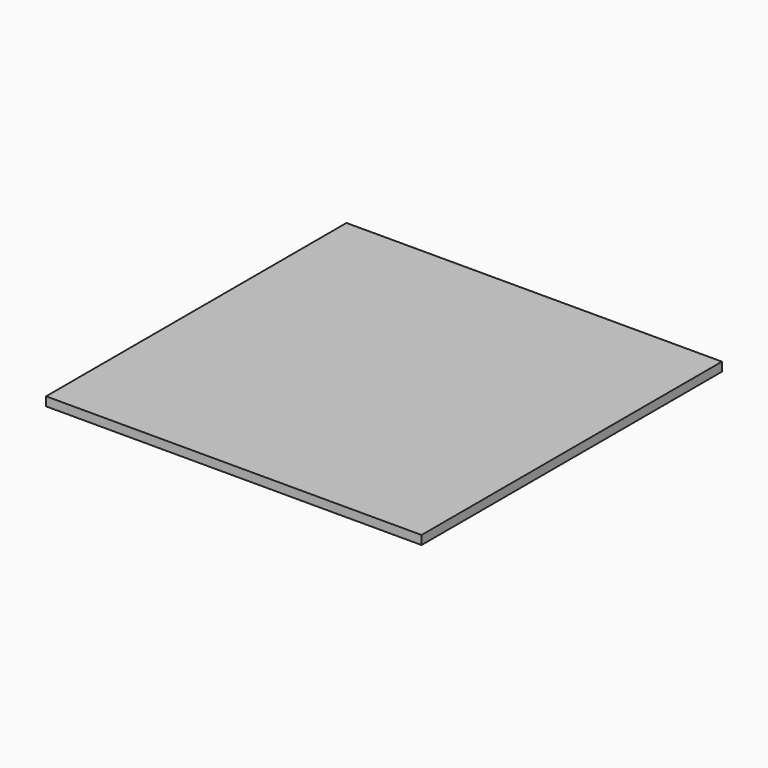
from build123d import *

# Parameters (mm, degrees)
BOX_W     = 127
BOX_H     = 127
BOX_DEPTH = 3


with BuildPart() as part:
    # Box → Box (new body)
    with BuildSketch(Plane.XY):
        with Locations((63.5, 63.5)):
            Rectangle(BOX_W, BOX_H)
    extrude(amount=BOX_DEPTH)


solid = part.part
